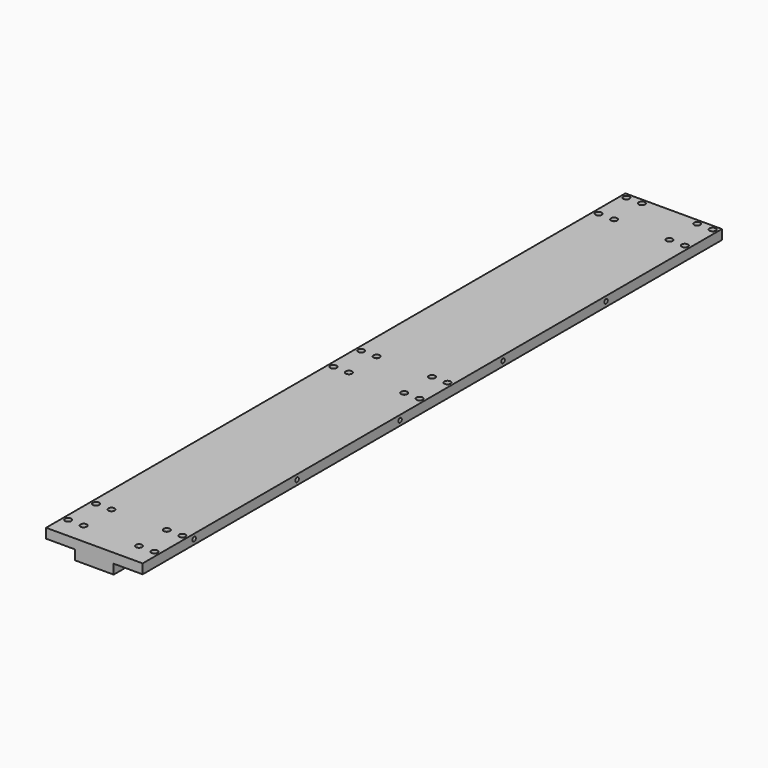
from build123d import *

# Parameters (mm, degrees)
F0_W           = 150
F0_H           = 30
F1_DEPTH       = 1125
F3_D           = 5.5
F3_CBORE_D     = 9.75
F3_CBORE_DEPTH = 5
F4_W           = 45
F4_H           = 15
F5_DEPTH       = 1125.001
F7_D           = 6.6
F7_DEPTH       = 9
F7_TIP         = 1.9828400428


with BuildPart() as f1:
    # F0 (on Front) → F1 (new body)
    with BuildSketch(Plane.XZ):
        Rectangle(F0_W, F0_H)
    extrude(amount=F1_DEPTH)

    # F3 (through all)
    with Locations(Plane.XY.offset(15)):
        with Locations((-67, -1092), (-67, -1038), (-43, -1038), (-43, -1092), (43, -1092), (67, -1092), (67, -1038), (43, -1038), (-67, -577), (-43, -577), (-43, -523), (-67, -523), (43, -523), (67, -523), (67, -577), (43, -577), (43, -62), (43, -8), (67, -8), (67, -62), (-43, -62), (-67, -62), (-67, -8), (-43, -8)):
            CounterBoreHole(F3_D / 2, F3_CBORE_D / 2, F3_CBORE_DEPTH)

    # F4 (on face) → F5 (cut, through all)
    with BuildSketch(Plane.XZ.offset(1125)):
        with Locations((-52.5, -7.5)):
            Rectangle(F4_W, F4_H)
        with Locations((52.5, -7.5)):
            Rectangle(F4_W, F4_H)
    extrude(amount=-F5_DEPTH, mode=Mode.SUBTRACT)

    # F7
    with Locations(Plane.YZ.offset(75)):
        with Locations((-1025, 7.5), (-825, 7.5), (-625, 7.5), (-425, 7.5), (-225, 7.5)):
            Hole(F7_D / 2, depth=F7_DEPTH)
            with Locations((0, 0, -(F7_DEPTH + F7_TIP / 2))):  # 118° drill point
                Cone(0, F7_D / 2, F7_TIP, mode=Mode.SUBTRACT)


solid = f1.part
